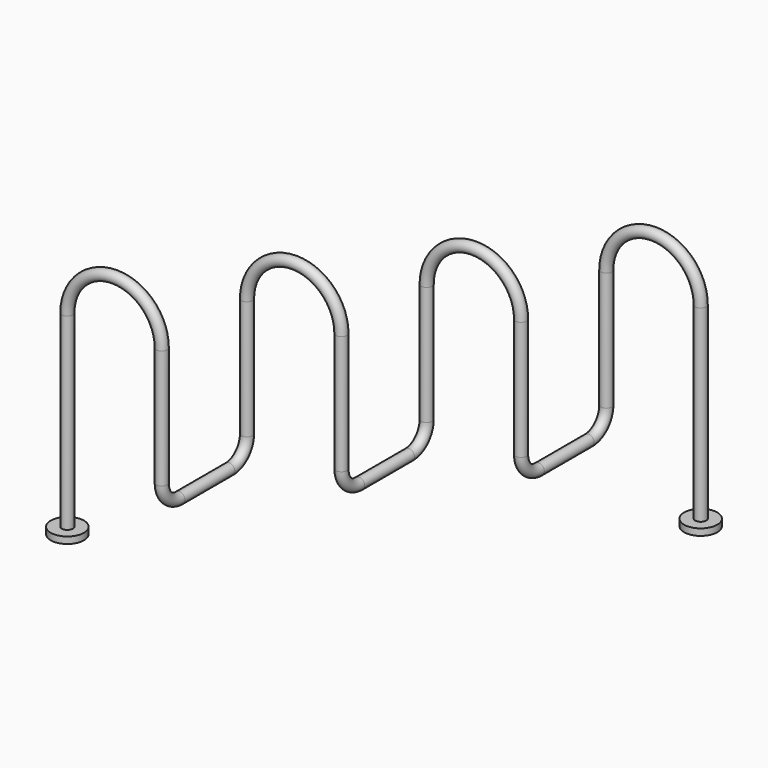
from build123d import *

# Parameters (mm, degrees)
F14_R     = 3.175
F14_R_2   = 9.525
F16_DEPTH = 3.81
F18_R     = 9.525
F19_DEPTH = 3.81


with BuildPart() as f15:
    # F15: sweep along a path in F0, F2, F4, F6, F8, F10, F12
    with BuildLine(Plane.XZ) as f15_path:
        Line((0, -19.05), (0, 0))
        Line((0, 0), (0, 88.9))
        ThreePointArc((0, 88.9), (27.0840272317, 115.9840272317), (54.1680544633, 88.9))
    with BuildLine(Plane.YZ.offset(54.1680544633)) as f15_path_2:
        Line((0, 88.9), (0, 20.6772885093))
        ThreePointArc((0, 20.6772885093), (3.7197438789, 11.6970323883), (12.7, 7.9772885093))
        Line((12.7, 7.9772885093), (48.4435262451, 7.9772885093))
        ThreePointArc((48.4435262451, 7.9772885093), (57.4237823662, 11.6970323883), (61.1435262451, 20.6772885093))
    with BuildLine(Plane.XZ.offset(-61.1435262451)) as f15_path_3:
        Line((54.1680544633, 20.6772885093), (54.1680544633, 88.9016885093))
        ThreePointArc((54.1680544633, 88.9016885093), (81.2444544633, 115.9780885093), (108.3208544633, 88.9016885093))
    with BuildLine(Plane.YZ.offset(108.3208544633)) as f15_path_4:
        Line((61.1435262451, 88.9016885093), (61.1435262451, 20.6772885093))
        ThreePointArc((61.1435262451, 20.6772885093), (64.863270124, 11.6970323883), (73.8435262451, 7.9772885093))
        Line((73.8435262451, 7.9772885093), (109.5813262451, 7.9772885093))
        ThreePointArc((109.5813262451, 7.9772885093), (118.5615823662, 11.6970323883), (122.2813262451, 20.6772885093))
    with BuildLine(Plane.XZ.offset(-122.2813262451)) as f15_path_5:
        Line((108.3208544633, 20.6772885093), (108.3208544633, 88.9016885093))
        ThreePointArc((108.3208544633, 88.9016885093), (135.3972544633, 115.9780885093), (162.4736544633, 88.9016885093))
    with BuildLine(Plane.YZ.offset(162.4736544633)) as f15_path_6:
        Line((122.2813262451, 88.9016885093), (122.2813262451, 20.6772885093))
        ThreePointArc((122.2813262451, 20.6772885093), (126.001070124, 11.6970323883), (134.9813262451, 7.9772885093))
        Line((134.9813262451, 7.9772885093), (170.7191262451, 7.9772885093))
        ThreePointArc((170.7191262451, 7.9772885093), (179.6993823662, 11.6970323883), (183.4191262451, 20.6772885093))
    with BuildLine(Plane.XZ.offset(-183.4191262451)) as f15_path_7:
        Line((162.4736544633, 20.6772885093), (162.4736544633, 88.9016885093))
        ThreePointArc((162.4736544633, 88.9016885093), (189.5500544633, 115.9780885093), (216.6264544633, 88.9016885093))
        Line((216.6264544633, 88.9016885093), (216.6264544633, 0))
        Line((216.6264544633, 0), (216.6264544633, -19.05))
    # F14 (on plane+point) → F15 (sweep)
    with BuildSketch(Plane.XY.offset(-19.05)):
        Circle(F14_R)
    sweep(path=f15_path.line + f15_path_2.line + f15_path_3.line + f15_path_4.line + f15_path_5.line + f15_path_6.line + f15_path_7.line)

    # F18 (on plane+point) → F19 (join)
    with BuildSketch(Plane.XY.offset(-19.05)):
        with Locations((216.6490256786, 183.380484581)):
            Circle(F18_R)
    extrude(amount=-F19_DEPTH)


with BuildPart() as f16:
    # F14 (on plane+point) → F16 (new body)
    with BuildSketch(Plane.XY.offset(-19.05)):
        Circle(F14_R_2)
        Circle(F14_R, mode=Mode.SUBTRACT)
    extrude(amount=-F16_DEPTH)


solid = Compound([f15.part, f16.part])
